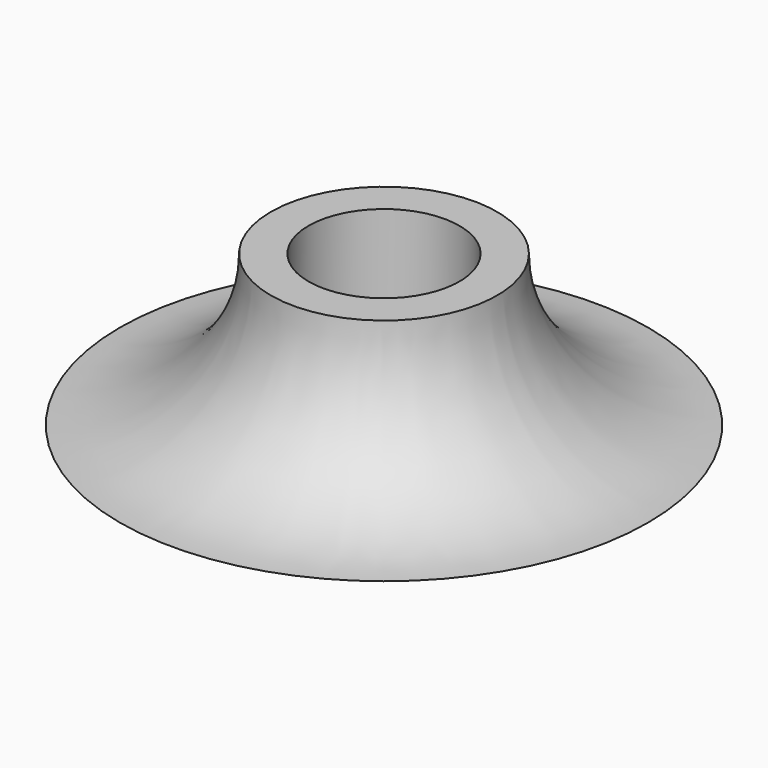
from build123d import *


with BuildPart() as f1:
    # F0 (on Front) → F1 (revolve)
    with BuildSketch(Plane.XZ):
        with BuildLine():
            Line((67.590241, 40), (57.590241, 40))
            ThreePointArc((57.590241, 40), (45.874513, 11.715729), (17.590241, 0))
            Line((17.590241, 0), (67.590241, 0))
            Line((67.590241, 0), (67.590241, 40))
        make_face()
    revolve(axis=Axis((87.590241, 0, 21.55929), (0, 0, -1)))


solid = f1.part
